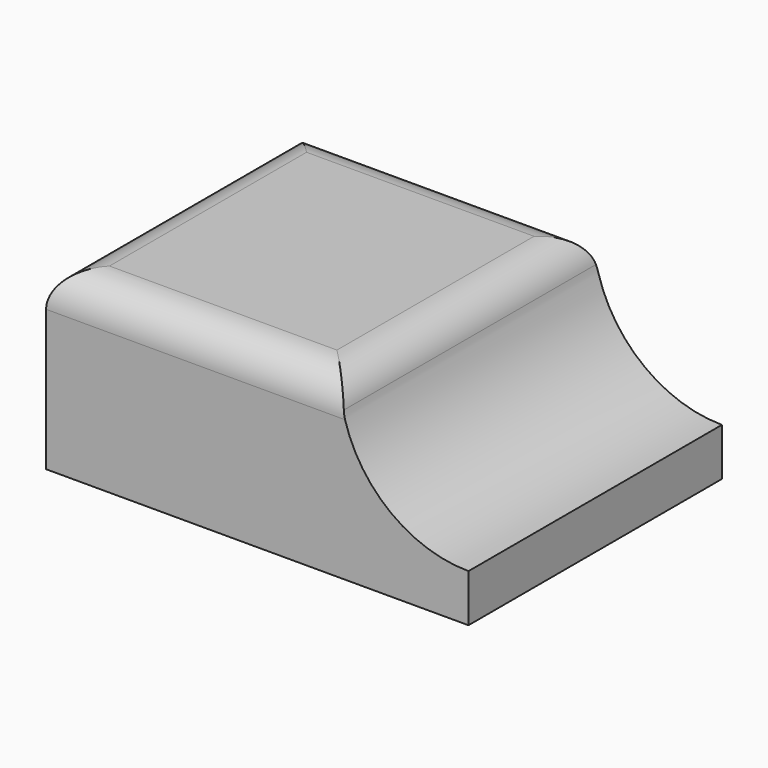
from build123d import *

# Parameters (mm, degrees)
F0_W     = 60
F0_H     = 45
F1_DEPTH = 25
F2_R     = 18.230112
F3_DEPTH = 45.001
F4_R     = 5
F5_T     = -1


with BuildPart() as f1:
    # F0 (on Top) → F1 (new body)
    with BuildSketch(Plane.XY):
        with Locations((31.256983, 22.5)):
            Rectangle(F0_W, F0_H)
    extrude(amount=F1_DEPTH)

    # F2 (on face) → F3 (cut, through all)
    with BuildSketch(Plane.XZ):
        with Locations((61.256983, 25)):
            Circle(F2_R)
    extrude(amount=-F3_DEPTH, mode=Mode.SUBTRACT)

    # F4
    f4_edges = [f1.edges().sort_by_distance(p)[0] for p in [
        (43.026871, 22.5, 25),
        (22.141927, 0, 25),
        (1.256983, 22.5, 25),
        (22.141927, 45, 25),
    ]]
    fillet(f4_edges, radius=F4_R)

    # F5
    f5_openings = [f1.faces().sort_by_distance(p)[0] for p in [
        (31.256983, 22.5, 0),
    ]]
    offset(amount=F5_T, openings=f5_openings)


solid = f1.part
